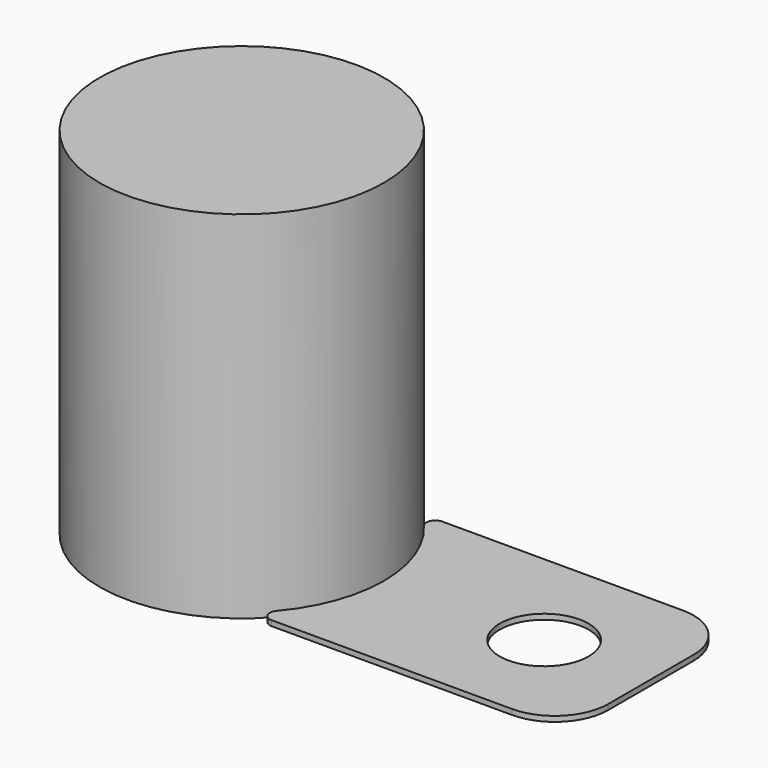
from build123d import *

# Parameters (mm, degrees)
F0_R     = 80
F1_DEPTH = 200
F2_R     = 25
F3_DEPTH = 3


with BuildPart() as f1:
    # F0 (on Top) → F1 (new body)
    with BuildSketch(Plane.XY):
        Circle(F0_R)
    extrude(amount=F1_DEPTH)


with BuildPart() as f3:
    # F2 (on Top) → F3 (new body)
    with BuildSketch(Plane.XY):
        with BuildLine():
            Line((200, 60), (64.807407, 60))
            ThreePointArc((64.807407, 60), (60.269981, 57.10042), (60.995207, 51.764706))
            ThreePointArc((60.995207, 51.764706), (80, 0), (60.995207, -51.764706))
            ThreePointArc((60.995207, -51.764706), (60.269981, -57.10042), (64.807407, -60))
            Line((64.807407, -60), (200, -60))
            ThreePointArc((200, -60), (221.213203, -51.213203), (230, -30))
            Line((230, -30), (230, 30))
            ThreePointArc((230, 30), (221.213203, 51.213203), (200, 60))
        make_face()
        with Locations((170, 0)):
            Circle(F2_R, mode=Mode.SUBTRACT)
    extrude(amount=F3_DEPTH)


solid = Compound([f1.part, f3.part])
